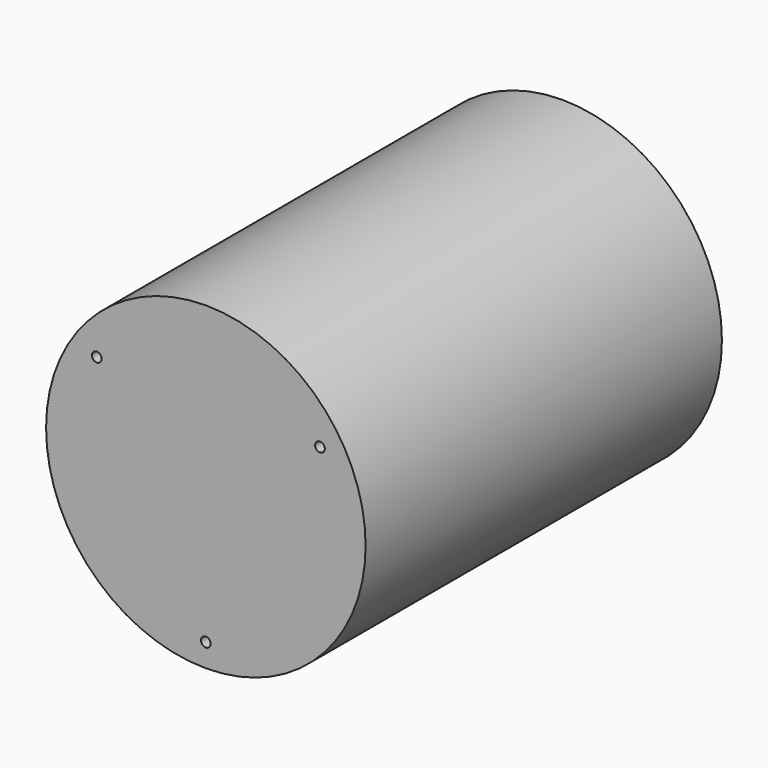
from build123d import *

# Parameters (mm, degrees)
F0_R     = 33
F0_R_2   = 30
F1_DEPTH = 92
F2_DEPTH = 3
F3_T     = -2.5
F4_R     = 1
F5_DEPTH = 6


with BuildPart() as f1:
    # F0 (on Front) → F1 (new body)
    with BuildSketch(Plane.XZ):
        Circle(F0_R)
        Circle(F0_R_2, mode=Mode.SUBTRACT)
        Circle(F0_R_2)
    extrude(amount=F1_DEPTH)

    # F0 (on Front) → F2 (join)
    with BuildSketch(Plane.XZ):
        Circle(F0_R)
        Circle(F0_R_2, mode=Mode.SUBTRACT)
    extrude(amount=F2_DEPTH)

    # F3
    f3_openings = [f1.faces().sort_by_distance(p)[0] for p in [
        (0, 0, 0),
    ]]
    offset(amount=F3_T, openings=f3_openings)

    # F4 (on face) → F5 (cut)
    with BuildSketch(Plane.XZ.offset(92)):
        with Locations((0, -28.224484995)):
            Circle(F4_R)
        with Locations((23.5754325986, 14.9141801521)):
            Circle(F4_R)
        with Locations((-22.5217076706, 16.2781162705)):
            Circle(F4_R)
    extrude(amount=-F5_DEPTH, mode=Mode.SUBTRACT)


solid = f1.part
